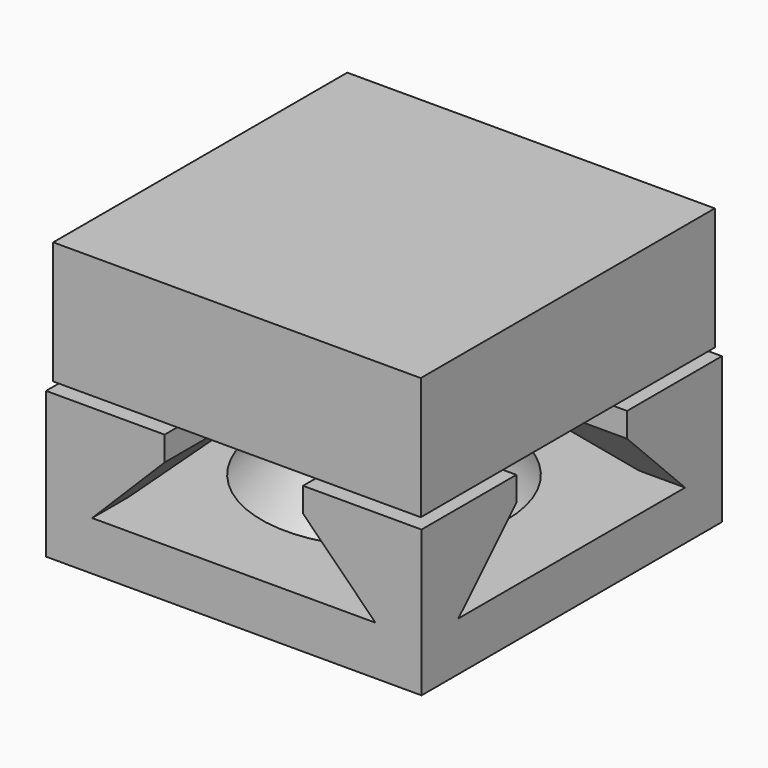
from build123d import *

# Parameters (mm, degrees)
F3_W      = 9.2532467532
F3_H      = 6.1688311688
F4_DEPTH  = 9.2532467532
F7_DEPTH  = 9.4532467532
F8_DEPTH  = 12.3376623377
F10_ANGLE = 90


with BuildPart() as f4:
    # F3 (on Front) → F4 (new body, symmetric)
    with BuildSketch(Plane.XZ):
        Polygon((-3.0844155844, 4.8838672431), (0, 4.8838672431), (0, 11.052698412), (-9.2532467532, 11.052698412), (-9.2532467532, 4.8838672431), align=None)
        with Locations((4.6266233766, 7.9682828275)):
            Rectangle(F3_W, F3_H)
    extrude(amount=F4_DEPTH, both=True)

    # F3 (on Front) → F5 (revolve)
    with BuildSketch(Plane.XZ):
        Polygon((0, 0), (0, 4.8838672431), (-3.0844155844, 4.8838672431), (-3.0844155844, 3.0844155844), (-6.1688311688, 0), align=None)
    revolve(axis=Axis((0, 0, 2.4419336216), (0, 0, 1)))


with BuildPart() as f7:
    # F6 (on Front) → F7 (new body, symmetric)
    with BuildSketch(Plane.XZ):
        Polygon((-3.4844155844, 3.2501010094), (-3.4844155844, 4.4838672431), (-9.4532467532, 4.4838672431), (-9.4532467532, -2.8675324675), (9.4532467532, -2.8675324675), (9.4532467532, 4.4838672431), (3.4844155844, 4.4838672431), (3.4844155844, 3.2501010094), (7.1345165938, -0.4), (0, -0.4), (-7.1345165938, -0.4), align=None)
        Polygon((3.4844155844, 4.4838672431), (0, 4.4838672431), (0, -0.4), (7.1345165938, -0.4), (3.4844155844, 3.2501010094), align=None)
        Polygon((0, 4.4838672431), (-3.4844155844, 4.4838672431), (-3.4844155844, 3.2501010094), (-7.1345165938, -0.4), (0, -0.4), align=None)
    extrude(amount=F7_DEPTH, both=True)


with BuildPart() as f8:
    # F6 (on Front) → F8 (new body, symmetric)
    with BuildSketch(Plane.XZ):
        Polygon((0, 4.4838672431), (-3.4844155844, 4.4838672431), (-3.4844155844, 3.2501010094), (-7.1345165938, -0.4), (0, -0.4), align=None)
        Polygon((3.4844155844, 4.4838672431), (0, 4.4838672431), (0, -0.4), (7.1345165938, -0.4), (3.4844155844, 3.2501010094), align=None)
    extrude(amount=F8_DEPTH, both=True)


with BuildPart() as f7_1:
    add(f7.part)

    # F9: cut F8
    add(f8.part, mode=Mode.SUBTRACT)


with BuildPart() as f8_1:
    # F10: moved
    add(f8.part.rotate(Axis((0, 0, 2.0419336216), (0, 0, -1)), F10_ANGLE))


with BuildPart() as f7_2:
    add(f7_1.part)

    # F11: cut F8
    add(f8_1.part, mode=Mode.SUBTRACT)


solid = Compound([f4.part, f7_2.part])
